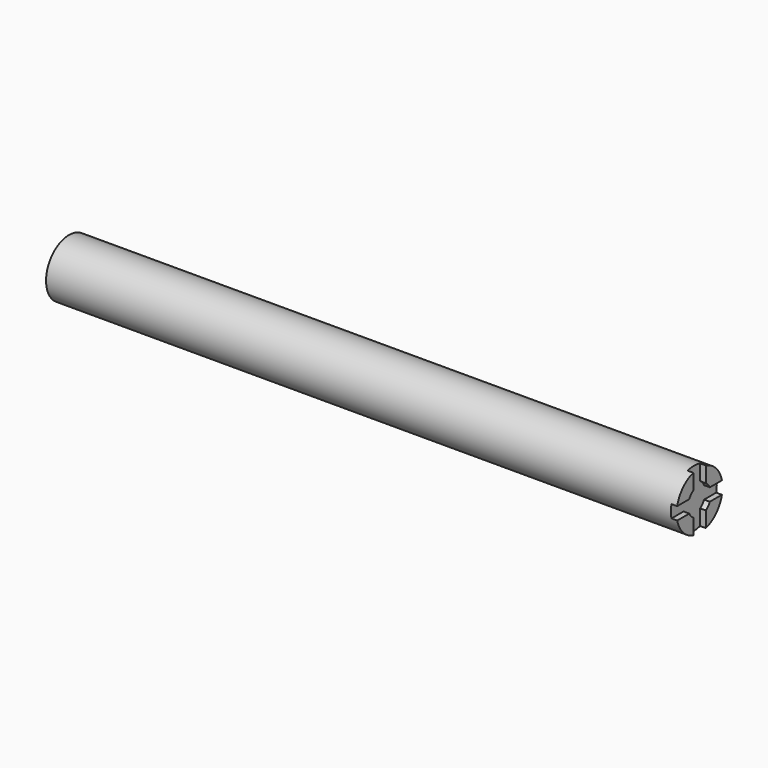
from build123d import *

# Parameters (mm, degrees)
F0_R     = 12.7
F1_DEPTH = 279.4
F3_DEPTH = 2.54


with BuildPart() as f1:
    # F0 (on Right) → F1 (new body)
    with BuildSketch(Plane.YZ):
        Circle(F0_R)
    extrude(amount=F1_DEPTH)

    # F2 (on face) → F3 (cut)
    with BuildSketch(Plane.YZ.offset(279.4)):
        with BuildLine():
            ThreePointArc((5.696123, -2.806543), (6.184371, -1.440854), (6.35, 0))
            ThreePointArc((6.35, 0), (6.184371, 1.440854), (5.696123, 2.806543))
            ThreePointArc((5.696123, 2.806543), (4.755533, 4.208017), (3.478958, 5.312189))
            ThreePointArc((3.478958, 5.312189), (0, 6.35), (-3.478958, 5.312189))
            ThreePointArc((-3.478958, 5.312189), (-4.755533, 4.208017), (-5.696123, 2.806543))
            ThreePointArc((-5.696123, 2.806543), (-6.35, 0), (-5.696123, -2.806543))
            ThreePointArc((-5.696123, -2.806543), (-4.755533, -4.208017), (-3.478958, -5.312189))
            ThreePointArc((-3.478958, -5.312189), (0, -6.35), (3.478958, -5.312189))
            ThreePointArc((3.478958, -5.312189), (4.755533, -4.208017), (5.696123, -2.806543))
        make_face()
        with BuildLine():
            ThreePointArc((5.696123, 2.806543), (6.184371, 1.440854), (6.35, 0))
            ThreePointArc((6.35, 0), (6.184371, -1.440854), (5.696123, -2.806543))
            Line((5.696123, -2.806543), (28.013255, -2.806543))
            Line((28.013255, -2.806543), (28.013255, 0))
            Line((28.013255, 0), (28.013255, 2.806543))
            Line((28.013255, 2.806543), (5.696123, 2.806543))
        make_face()
        with BuildLine():
            ThreePointArc((-3.478958, 5.312189), (0, 6.35), (3.478958, 5.312189))
            Line((3.478958, 5.312189), (3.478958, 26.45749))
            Line((3.478958, 26.45749), (0, 26.45749))
            Line((0, 26.45749), (-3.478958, 26.45749))
            Line((-3.478958, 26.45749), (-3.478958, 5.312189))
        make_face()
        with BuildLine():
            Line((3.478958, -31.876493), (3.478958, -5.312189))
            ThreePointArc((3.478958, -5.312189), (0, -6.35), (-3.478958, -5.312189))
            Line((-3.478958, -5.312189), (-3.478958, -31.876493))
            Line((-3.478958, -31.876493), (0, -31.876493))
            Line((0, -31.876493), (3.478958, -31.876493))
        make_face()
        with BuildLine():
            ThreePointArc((-5.696123, -2.806543), (-6.35, 0), (-5.696123, 2.806543))
            Line((-5.696123, 2.806543), (-29.619023, 2.806543))
            Line((-29.619023, 2.806543), (-29.619023, 0))
            Line((-29.619023, 0), (-29.619023, -2.806543))
            Line((-29.619023, -2.806543), (-5.696123, -2.806543))
        make_face()
    extrude(amount=-F3_DEPTH, mode=Mode.SUBTRACT)


solid = f1.part
